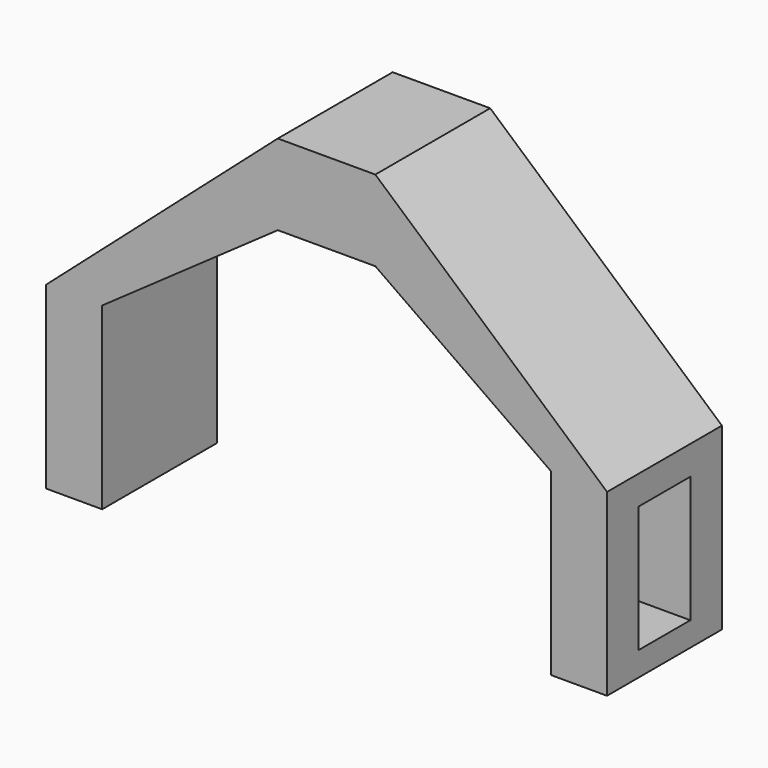
from build123d import *

# Parameters (mm, degrees)
F0_W     = 9.928305
F0_H     = 31.75
F0_W_2   = 17.255802
F0_H_2   = 14.27376
F0_W_3   = 9.928304
F1_DEPTH = 25.4
F2_W     = 11.43
F2_H     = 22.352
F3_DEPTH = 25.4


with BuildPart() as f1:
    # F0 (on Front) → F1 (new body)
    with BuildSketch(Plane.XZ):
        with Locations((-121.229738, 15.875)):
            Rectangle(F0_W, F0_H)
        Polygon((-85.205987, 67.841933), (-126.193891, 31.75), (-116.265586, 31.75), (-85.205987, 53.568173), align=None)
        with Locations((-76.578086, 60.705053)):
            Rectangle(F0_W_2, F0_H_2)
        Polygon((-26.962282, 31.75), (-67.950185, 67.841933), (-67.950185, 53.568173), (-36.890586, 31.75), align=None)
        with Locations((-31.926434, 15.875)):
            Rectangle(F0_W_3, F0_H)
    extrude(amount=F1_DEPTH)

    # F2 (on face) → F3 (cut)
    with BuildSketch(Plane.YZ.offset(-26.962282)):
        with Locations((-12.7, 15.457462)):
            Rectangle(F2_W, F2_H)
    extrude(amount=-F3_DEPTH, mode=Mode.SUBTRACT)


solid = f1.part
